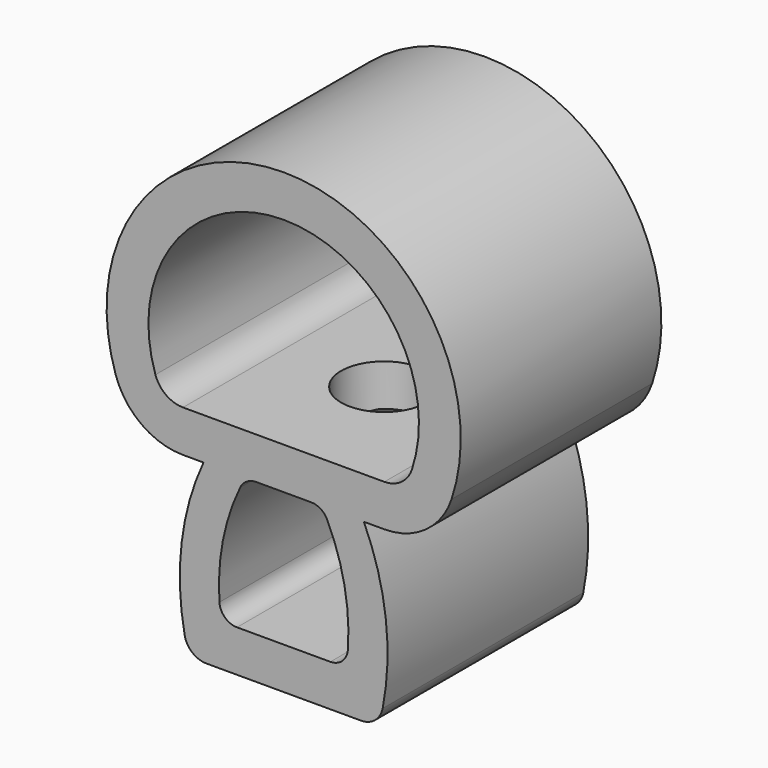
from build123d import *

# Parameters (mm, degrees)
F1_DEPTH = 57
F2_R     = 10
F3_R     = 8
F4_R     = 19.5
F5_DEPTH = 23.0736274766


with BuildPart() as f1:
    # F0 (on Front) → F1 (new body, symmetric)
    with BuildSketch(Plane.XZ):
        with BuildLine():
            ThreePointArc((76.3113958567, 97.9800145677), (65.3139848131, 170.5380837413), (0, 204))
            ThreePointArc((0, 204), (-65.3139848131, 170.5380837413), (-76.3113958567, 97.9800145677))
            ThreePointArc((-76.3113958567, 97.9800145677), (-64.5868234444, 82.0664049994), (-45.774399408, 76))
            Line((-45.774399408, 76), (-36.437930815, 76))
            ThreePointArc((-36.437930815, 76), (-46.804780385, 36.5859685512), (-43.1011872895, -4))
            Line((-43.1011872895, -4), (43.1011872895, -4))
            ThreePointArc((43.1011872895, -4), (46.804780385, 36.5859685512), (36.437930815, 76))
            Line((36.437930815, 76), (45.774399408, 76))
            ThreePointArc((45.774399408, 76), (64.5868234444, 82.0664049994), (76.3113958567, 97.9800145677))
        make_face()
        with BuildLine():
            ThreePointArc((-28.4035311639, 15), (-27.8807773056, 46.3973285977), (-17.4047398621, 76))
            Line((-17.4047398621, 76), (17.4047398621, 76))
            ThreePointArc((17.4047398621, 76), (27.8807773056, 46.3973285977), (28.4035311639, 15))
            Line((28.4035311639, 15), (-28.4035311639, 15))
        make_face(mode=Mode.SUBTRACT)
        with BuildLine():
            ThreePointArc((-45.774399408, 95), (-53.4872363848, 97.4871432148), (-58.2941509783, 104.0115058422))
            ThreePointArc((-58.2941509783, 104.0115058422), (-49.8932465977, 159.4384966818), (0, 185))
            ThreePointArc((0, 185), (49.8932465977, 159.4384966818), (58.2941509783, 104.0115058422))
            ThreePointArc((58.2941509783, 104.0115058422), (53.4872363848, 97.4871432148), (45.774399408, 95))
            Line((45.774399408, 95), (-45.774399408, 95))
        make_face(mode=Mode.SUBTRACT)
    extrude(amount=F1_DEPTH, both=True)

    # F2
    f2_edges = [f1.edges().sort_by_distance(p)[0] for p in [
        (-43.101187, 0, -4),
        (43.101187, 0, -4),
    ]]
    fillet(f2_edges, radius=F2_R)

    # F3
    f3_edges = [f1.edges().sort_by_distance(p)[0] for p in [
        (-17.40474, 0, 76),
        (17.40474, 0, 76),
        (28.403531, 0, 15),
        (35.177601, 0, -4),
        (-28.403531, 0, 15),
    ]]
    fillet(f3_edges, radius=F3_R)

    # F4 (on face) → F5 (cut, through all)
    with BuildSketch(Plane.XY.offset(95)):
        Circle(F4_R)
    extrude(amount=-F5_DEPTH, mode=Mode.SUBTRACT)


solid = f1.part
